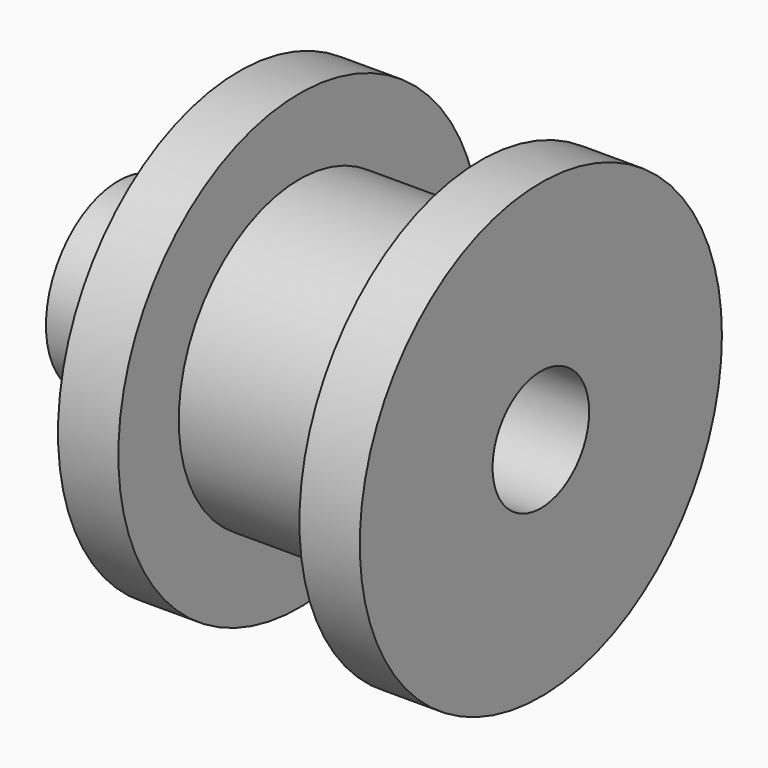
from build123d import *

# Parameters (mm, degrees)
F0_R     = 15
F0_R_2   = 10
F1_DEPTH = 20
F2_R     = 37.5
F2_R_2   = 15
F2_R_3   = 10
F3_DEPTH = 10
F4_R     = 25
F4_R_2   = 10
F5_DEPTH = 30
F6_R     = 37.5
F6_R_2   = 25
F6_R_3   = 10
F7_DEPTH = 10


with BuildPart() as f1:
    # F0 (on Right) → F1 (new body)
    with BuildSketch(Plane.YZ):
        Circle(F0_R)
        Circle(F0_R_2, mode=Mode.SUBTRACT)
    extrude(amount=F1_DEPTH)

    # F2 (on face) → F3 (join)
    with BuildSketch(Plane.YZ.offset(20)):
        Circle(F2_R)
        Circle(F2_R_2, mode=Mode.SUBTRACT)
        Circle(F2_R_2)
        Circle(F2_R_3, mode=Mode.SUBTRACT)
    extrude(amount=F3_DEPTH)

    # F4 (on face) → F5 (join)
    with BuildSketch(Plane.YZ.offset(30)):
        Circle(F4_R)
        Circle(F4_R_2, mode=Mode.SUBTRACT)
    extrude(amount=F5_DEPTH)

    # F6 (on face) → F7 (join)
    with BuildSketch(Plane.YZ.offset(60)):
        Circle(F6_R)
        Circle(F6_R_2, mode=Mode.SUBTRACT)
        Circle(F6_R_2)
        Circle(F6_R_3, mode=Mode.SUBTRACT)
    extrude(amount=F7_DEPTH)


solid = f1.part
